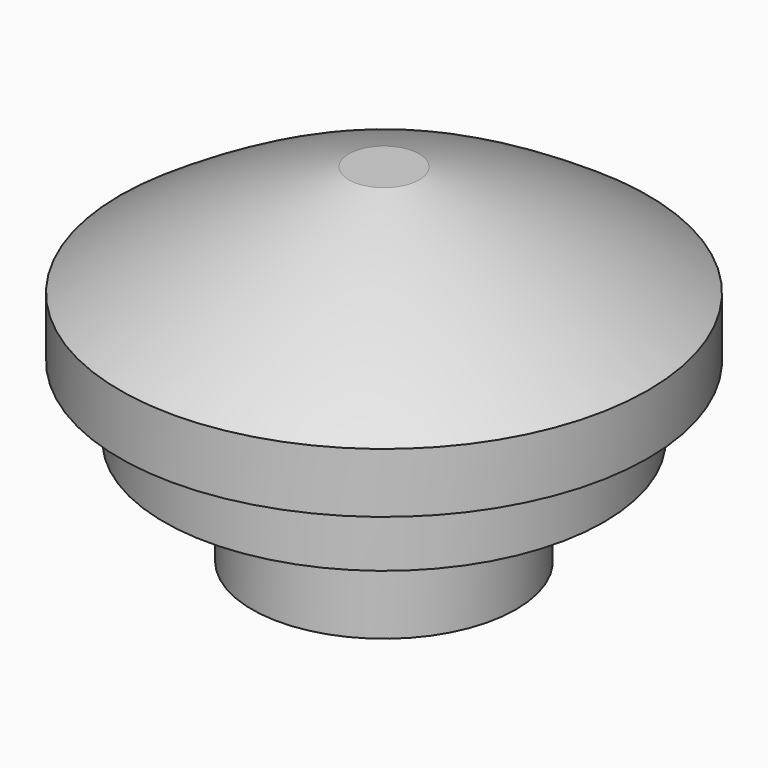
from build123d import *


with BuildPart() as f1:
    # F0 (on Front) → F1 (revolve)
    with BuildSketch(Plane.XZ):
        with BuildLine():
            Line((1, -0.255244), (1, -9.955244))
            Line((1, -9.955244), (7.5, -9.955244))
            Line((7.5, -9.955244), (7.5, -3.955244))
            Line((7.5, -3.955244), (12.5, -3.955244))
            Line((12.5, -3.955244), (12.5, 0.044756))
            Line((12.5, 0.044756), (15, 0.044756))
            Line((15, 0.044756), (15, 3.444756))
            ThreePointArc((15, 3.444756), (8.728726, 7.06673), (2, 9.744756))
            Line((2, 9.744756), (0, 9.744756))
            Line((0, 9.744756), (0, -0.255244))
            Line((0, -0.255244), (1, -0.255244))
        make_face()
    revolve(axis=Axis((0, 0, 4.744756), (0, 0, 1)))


solid = f1.part
